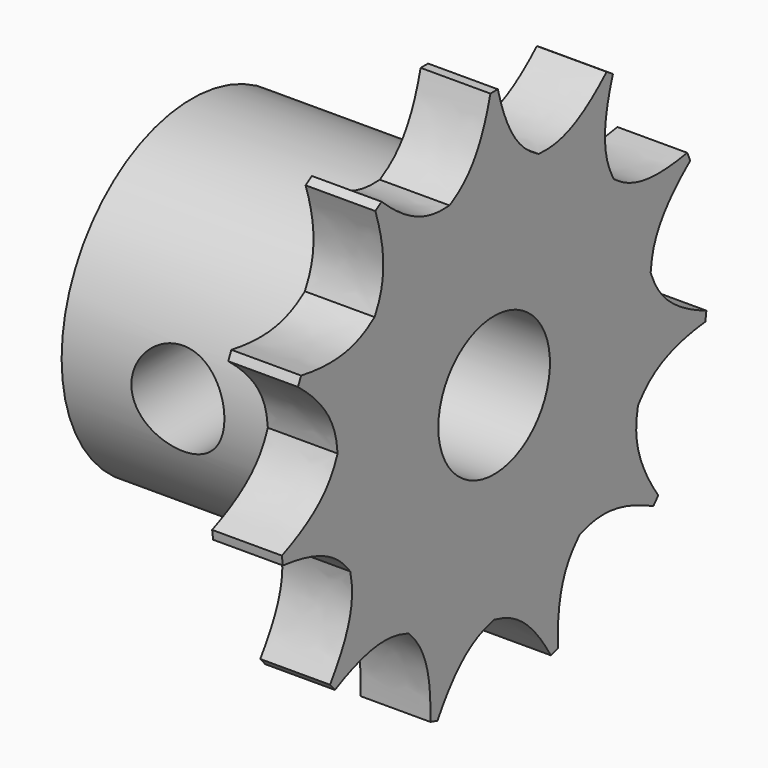
from build123d import *

# Parameters (mm, degrees)
F1_DEPTH  = 3
F2_COUNT  = 11
F3_R      = 7
F4_DEPTH  = 10
F5_R      = 3
F6_DEPTH  = 13.001
F7_R      = 2
F8_DEPTH  = 11.410776
F9_R      = 2
F10_DEPTH = 11.410776


with BuildPart() as f1:
    # F0 (on Right) → F1 (new body)
    with BuildSketch(Plane.YZ):
        with BuildLine():
            add(Edge.make_bspline(
                [(2.394727, 8.15569), (1.48914, 8.651781), (0.734067, 9.406854), (0.200703, 11.498248)],
                knots=[0, 0, 0, 0, 3.998304, 3.998304, 3.998304, 3.998304], degree=3))
            ThreePointArc((0.200703, 11.498248), (0, 11.5), (-0.200703, 11.498248))
            add(Edge.make_bspline(
                [(-2.394727, 8.15569), (-1.48914, 8.651781), (-0.734067, 9.406854), (-0.200703, 11.498248)],
                knots=[0, 0, 0, 0, 3.998304, 3.998304, 3.998304, 3.998304], degree=3))
            Line((-2.394727, 8.15569), (0, 0))
            Line((0, 0), (2.394727, 8.15569))
        make_face()
    extrude(amount=F1_DEPTH)

    # F2: F1 ×11 about axis
    f2_axis = Axis((1.5, 0, 0), (1, 0, 0))


with BuildPart() as f1_1:
    add(f1.part)
    for i in range(1, F2_COUNT):
        add(f1.part.rotate(f2_axis, i * 360 / F2_COUNT))

    # F3 (on face) → F4 (join)
    with BuildSketch(Plane(origin=(0, 0, 0), x_dir=(0, -1, 0), z_dir=(-1, 0, 0))):
        Circle(F3_R)
    extrude(amount=F4_DEPTH)

    # F5 (on face) → F6 (cut, through all)
    with BuildSketch(Plane(origin=(-10, 0, 0), x_dir=(0, -1, 0), z_dir=(-1, 0, 0))):
        Circle(F5_R)
    extrude(amount=-F6_DEPTH, mode=Mode.SUBTRACT)

    # F7 (on Front) → F8 (cut, through all)
    with BuildSketch(Plane.XZ):
        with Locations((-5, 0)):
            Circle(F7_R)
    extrude(amount=-F8_DEPTH, mode=Mode.SUBTRACT)

    # F9 (on Front) → F10 (cut, through all)
    with BuildSketch(Plane.XZ):
        with Locations((-5, 0)):
            Circle(F9_R)
    extrude(amount=F10_DEPTH, mode=Mode.SUBTRACT)


solid = f1_1.part
